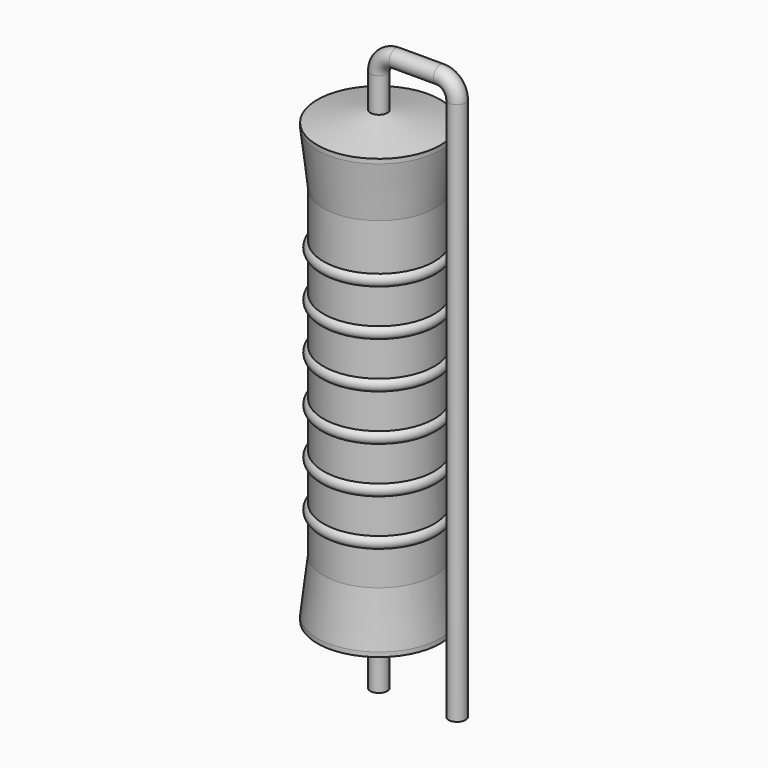
from build123d import *

# Parameters (mm, degrees)
SKETCH_R = 0.55


with BuildPart() as sweep_body:
    # Sweep: sweep along a path in Sketch001
    with BuildLine(Plane.XZ) as sweep_path:
        Line((0, -3), (0, 32.3))
        ThreePointArc((0, 32.3), (0.322179, 33.077814), (1.099989, 33.4))
        Line((1.099989, 33.4), (3.98, 33.4))
        ThreePointArc((3.98, 33.4), (4.757817, 33.077817), (5.08, 32.3))
        Line((5.08, 32.3), (5.08, -3))
    # Sketch → Sweep (sweep)
    with BuildSketch(Plane.XY.offset(-2)):
        Circle(SKETCH_R)
    sweep(path=sweep_path.line)


with BuildPart() as revolution:
    # Sketch002 → Revolution (revolve)
    with BuildSketch(Plane.XZ):
        Polygon((0, 0.1), (0, 30.1), (0.4125, 30.1), (4, 29.35), (4, 29.0575), (3.6, 25.6), (3.6, 4.6), (4, 1.1425), (4, 0.85), (0.4125, 0.1), align=None)
    revolve(axis=Axis((0, 0, 0), (0, 0, 1)))


with BuildPart() as revolution001:
    # Sketch003 → Revolution001 (revolve)
    with BuildSketch(Plane.XZ):
        with BuildLine():
            Line((3.2, 24.8), (3.2, 4.6))
            Line((3.2, 4.6), (3.44, 4.6))
            Line((3.44, 4.6), (3.44, 6.8))
            ThreePointArc((3.44, 6.8), (3.84, 7.2), (3.44, 7.6))
            Line((3.44, 7.6), (3.44, 9.8))
            ThreePointArc((3.44, 9.8), (3.84, 10.2), (3.44, 10.6))
            Line((3.44, 10.6), (3.44, 12.8))
            ThreePointArc((3.44, 12.8), (3.84, 13.2), (3.44, 13.6))
            Line((3.44, 13.6), (3.44, 15.8))
            ThreePointArc((3.44, 15.8), (3.84, 16.2), (3.44, 16.6))
            Line((3.44, 16.6), (3.44, 18.8))
            ThreePointArc((3.44, 18.8), (3.84, 19.2), (3.44, 19.6))
            Line((3.44, 19.6), (3.44, 21.8))
            ThreePointArc((3.44, 21.8), (3.84, 22.2), (3.44, 22.6))
            Line((3.44, 24.8), (3.44, 22.6))
            Line((3.2, 24.8), (3.44, 24.8))
        make_face()
    revolve(axis=Axis((0, 0, 0), (0, 0, 1)))


solid = Compound([sweep_body.part, revolution.part, revolution001.part])
